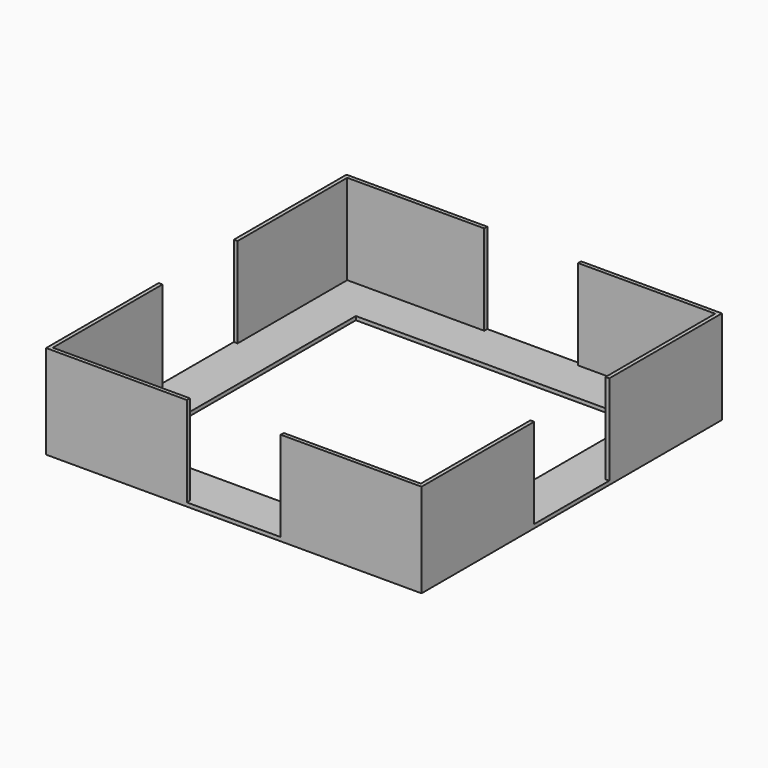
from build123d import *

# Parameters (mm, degrees)
F1_W     = 30
F1_H     = 30
F2_DEPTH = 0.4
F3_DEPTH = 10


with BuildPart() as f2:
    # F1 (on Top) → F2 (new body)
    with BuildSketch(Plane.XY):
        Polygon((-5, 20), (-20, 20), (-20, 5), (-19.6, 5), (-19.6, 19.6), (-5, 19.6), align=None)
        Polygon((20, 20), (5, 20), (5, 19.6), (19.6, 19.6), (19.6, 5), (20, 5), align=None)
        Polygon((5, 20), (-5, 20), (-5, 19.6), (-19.6, 19.6), (-19.6, 5), (-20, 5), (-20, -5), (-19.6, -5), (-19.6, -19.6), (-5, -19.6), (-5, -20), (5, -20), (5, -19.6), (19.6, -19.6), (19.6, -5), (20, -5), (20, 5), (19.6, 5), (19.6, 19.6), (5, 19.6), align=None)
        Rectangle(F1_W, F1_H, mode=Mode.SUBTRACT)
        Polygon((20, -20), (20, -5), (19.6, -5), (19.6, -19.6), (5, -19.6), (5, -20), align=None)
        Polygon((-19.6, -5), (-20, -5), (-20, -20), (-5, -20), (-5, -19.6), (-19.6, -19.6), align=None)
    extrude(amount=F2_DEPTH)

    # F1 (on Top) → F3 (join)
    with BuildSketch(Plane.XY):
        Polygon((20, -20), (20, -5), (19.6, -5), (19.6, -19.6), (5, -19.6), (5, -20), align=None)
        Polygon((-19.6, -5), (-20, -5), (-20, -20), (-5, -20), (-5, -19.6), (-19.6, -19.6), align=None)
        Polygon((20, 20), (5, 20), (5, 19.6), (19.6, 19.6), (19.6, 5), (20, 5), align=None)
        Polygon((-5, 20), (-20, 20), (-20, 5), (-19.6, 5), (-19.6, 19.6), (-5, 19.6), align=None)
    extrude(amount=F3_DEPTH)


solid = f2.part
